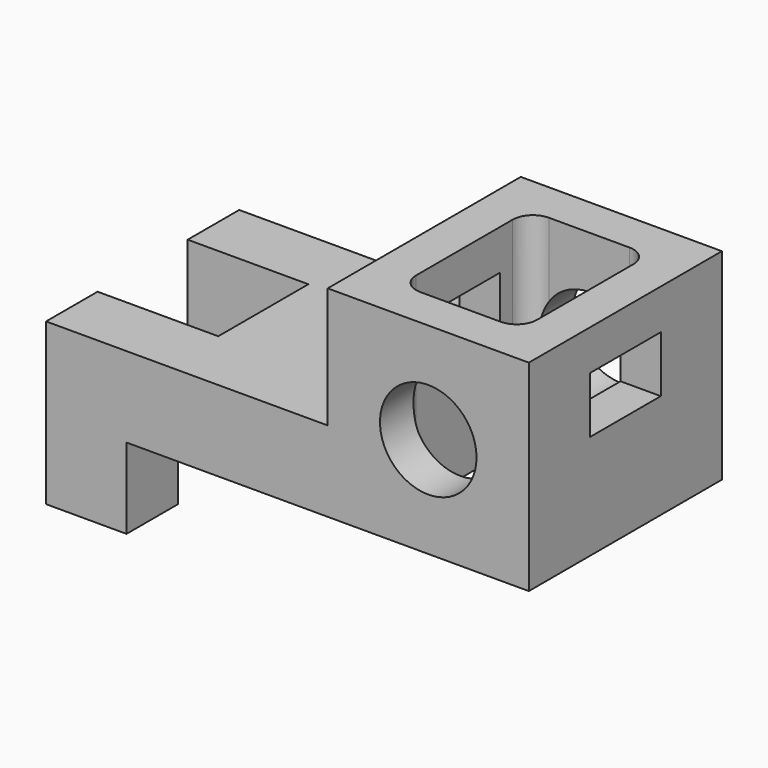
from build123d import *

# Parameters (mm, degrees)
F1_DEPTH = 600
F2_W     = 600
F2_H     = 280
F3_DEPTH = 400.001
F4_R     = 120
F5_DEPTH = 600.001
F7_DEPTH = 700.001
F8_W     = 220
F8_H     = 140
F9_DEPTH = 1200.001


with BuildPart() as f1:
    # F0 (on Front) → F1 (new body)
    with BuildSketch(Plane.XZ):
        Polygon((0, 400), (0, 0), (200, 0), (200, 200), (1200, 200), (1200, 700), (700, 700), (700, 400), align=None)
    extrude(amount=F1_DEPTH)

    # F2 (on face) → F3 (cut, through all)
    with BuildSketch(Plane.XY.offset(400)):
        with Locations((0, -300)):
            Rectangle(F2_W, F2_H)
    extrude(amount=-F3_DEPTH, mode=Mode.SUBTRACT)

    # F4 (on face) → F5 (cut, through all)
    with BuildSketch(Plane.XZ.offset(600)):
        with Locations((950, 450)):
            Circle(F4_R)
    extrude(amount=-F5_DEPTH, mode=Mode.SUBTRACT)

    # F6 (on face) → F7 (cut, through all)
    with BuildSketch(Plane.XY.offset(700)):
        with BuildLine():
            Line((850, -500), (1050, -500))
            ThreePointArc((1050, -500), (1085.355339, -485.355339), (1100, -450))
            Line((1100, -450), (1100, -150))
            ThreePointArc((1100, -150), (1085.355339, -114.644661), (1050, -100))
            Line((1050, -100), (850, -100))
            ThreePointArc((850, -100), (814.644661, -114.644661), (800, -150))
            Line((800, -150), (800, -450))
            ThreePointArc((800, -450), (814.644661, -485.355339), (850, -500))
        make_face()
    extrude(amount=-F7_DEPTH, mode=Mode.SUBTRACT)

    # F8 (on face) → F9 (cut, through all)
    with BuildSketch(Plane.YZ.offset(1200)):
        with Locations((-300, 530)):
            Rectangle(F8_W, F8_H)
    extrude(amount=-F9_DEPTH, mode=Mode.SUBTRACT)


solid = f1.part
